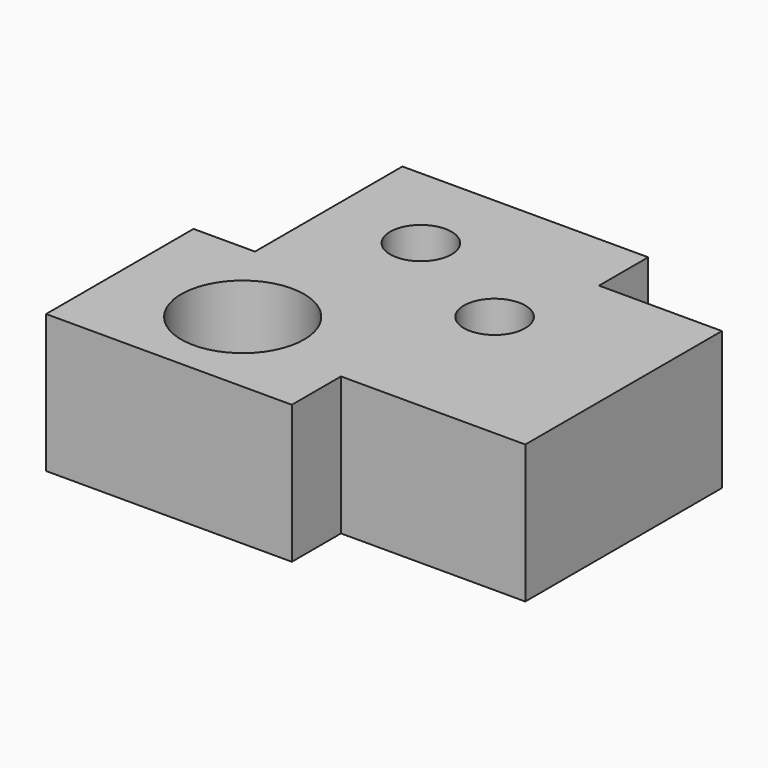
from build123d import *

# Parameters (mm, degrees)
F0_R     = 12.7
F0_R_2   = 6.35
F1_DEPTH = 28.575


with BuildPart() as f1:
    # F0 (on Top) → F1 (new body)
    with BuildSketch(Plane.XY):
        Polygon((0, 38.1), (0, 0), (50.8, 0), (50.8, 12.7), (88.9, 12.7), (88.9, 63.5), (63.5, 63.5), (63.5, 76.2), (12.7, 76.2), (12.7, 38.1), align=None)
        with Locations((25.4, 19.05)):
            Circle(F0_R, mode=Mode.SUBTRACT)
        with Locations((31.75, 57.15)):
            Circle(F0_R_2, mode=Mode.SUBTRACT)
        with Locations((57.15, 44.45)):
            Circle(F0_R_2, mode=Mode.SUBTRACT)
    extrude(amount=F1_DEPTH)


solid = f1.part
